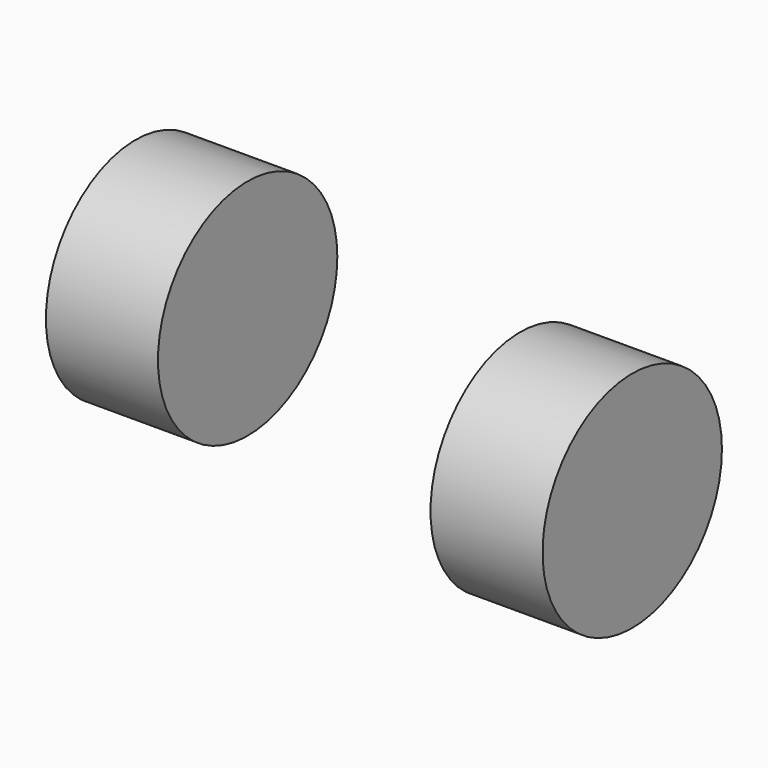
from build123d import *

# Parameters (mm, degrees)
F0_R     = 12.7
F1_DEPTH = 12.7


with BuildPart() as f1:
    # F0 (on Right) → F1 (new body)
    with BuildSketch(Plane.YZ):
        Circle(F0_R)
        with Locations((-54.474894, 41.320443)):
            Circle(F0_R)
    extrude(amount=F1_DEPTH)


solid = f1.part
